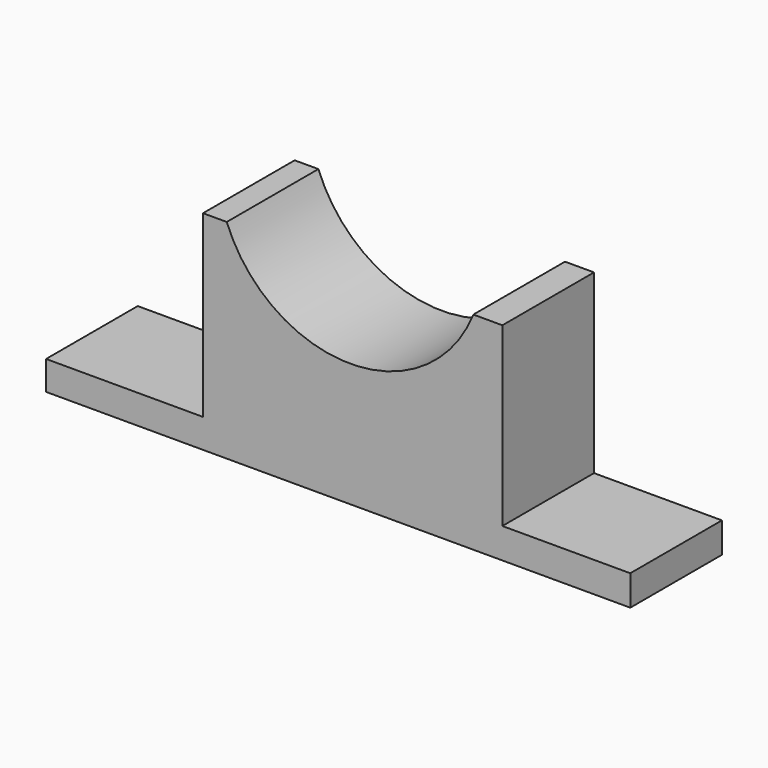
from build123d import *

# Parameters (mm, degrees)
F1_DEPTH = 25


with BuildPart() as f1:
    # F0 (on Front) → F1 (new body)
    with BuildSketch(Plane.XZ):
        with BuildLine():
            Line((-28.636673, -16.548831), (-62.88556, -16.548831))
            Line((-62.88556, -16.548831), (-62.88556, -22.880558))
            Line((-62.88556, -22.880558), (64.612396, -22.880558))
            Line((64.612396, -22.880558), (64.612396, -16.261026))
            Line((64.612396, -16.261026), (36.695234, -16.261026))
            Line((36.695234, -16.261026), (36.695234, 22.304947))
            Line((36.695234, 22.304947), (30.363506, 22.304947))
            ThreePointArc((30.363506, 22.304947), (3.355691, 4.127085), (-23.456169, 22.592753))
            Line((-23.456169, 22.592753), (-28.636673, 22.592753))
            Line((-28.636673, 22.592753), (-28.636673, -16.548831))
        make_face()
    extrude(amount=F1_DEPTH)


solid = f1.part
